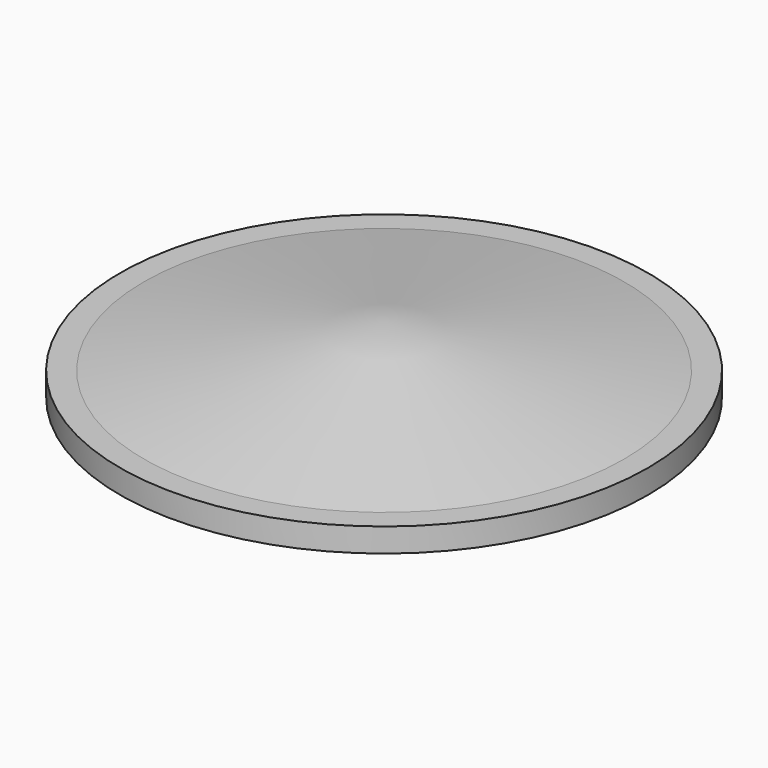
from build123d import *

# Parameters (mm, degrees)
F0_R     = 442.5682796517
F1_DEPTH = 40
F2_R     = 402.5682796517
F3_DEPTH = 93.98
F4_R     = 402.5682796517
F5_DEPTH = 100
F5_TAPER = 80
F6_T     = -5


with BuildPart() as f1:
    # F0 (on Top) → F1 (new body)
    with BuildSketch(Plane.XY):
        Circle(F0_R)
    extrude(amount=F1_DEPTH)

    # F2 (on face) → F3 (cut)
    with BuildSketch(Plane.XY.offset(40)):
        Circle(F2_R)
    extrude(amount=-F3_DEPTH, mode=Mode.SUBTRACT)


with BuildPart() as f5:
    # F4 (on face) → F5 (new body)
    with BuildSketch(Plane.XY.offset(40)):
        Circle(F4_R)
    extrude(amount=F5_DEPTH, taper=F5_TAPER)

    # F6
    f6_openings = [f5.faces().sort_by_distance(p)[0] for p in [
        (0, 0, 40),
    ]]
    offset(amount=F6_T, openings=f6_openings)


solid = Compound([f1.part, f5.part])
